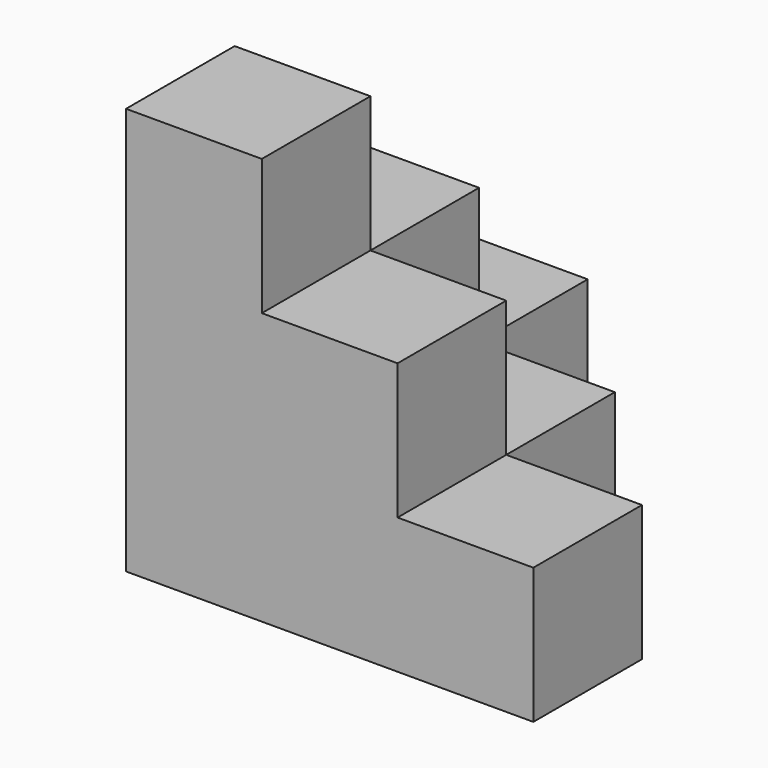
from build123d import *

# Parameters (mm, degrees)
BOX001_W     = 10
BOX001_H     = 10
BOX001_DEPTH = 20
BOX002_W     = 10
BOX002_H     = 20
BOX002_DEPTH = 10
BOX003_W     = 10
BOX003_H     = 10
BOX003_DEPTH = 10
BOX004_W     = 10
BOX004_H     = 10
BOX004_DEPTH = 10
BOX005_W     = 10
BOX005_H     = 10
BOX005_DEPTH = 10
BOX006_W     = 10
BOX006_H     = 10
BOX006_DEPTH = 20
BOX_W        = 10
BOX_H        = 10
BOX_DEPTH    = 30


with BuildPart() as cub001:
    # Box001 → Box001 (new body)
    with BuildSketch(Plane(origin=(0, 10, 0), x_dir=(1, 0, 0), z_dir=(0, 0, 1))):
        with Locations((5, 5)):
            Rectangle(BOX001_W, BOX001_H)
    extrude(amount=BOX001_DEPTH)


with BuildPart() as cub002:
    # Box002 → Box002 (new body)
    with BuildSketch(Plane(origin=(10, 0, 0), x_dir=(1, 0, 0), z_dir=(0, 0, 1))):
        with Locations((5, 10)):
            Rectangle(BOX002_W, BOX002_H)
    extrude(amount=BOX002_DEPTH)


with BuildPart() as cub003:
    # Box003 → Box003 (new body)
    with BuildSketch(Plane(origin=(20, 0, 0), x_dir=(1, 0, 0), z_dir=(0, 0, 1))):
        with Locations((5, 5)):
            Rectangle(BOX003_W, BOX003_H)
    extrude(amount=BOX003_DEPTH)


with BuildPart() as cub004:
    # Box004 → Box004 (new body)
    with BuildSketch(Plane(origin=(0, 20, 0), x_dir=(1, 0, 0), z_dir=(0, 0, 1))):
        with Locations((5, 5)):
            Rectangle(BOX004_W, BOX004_H)
    extrude(amount=BOX004_DEPTH)


with BuildPart() as cub005:
    # Box005 → Box005 (new body)
    with BuildSketch(Plane.XY):
        with Locations((5, 5)):
            Rectangle(BOX005_W, BOX005_H)
    extrude(amount=BOX005_DEPTH)


with BuildPart() as cub006:
    # Box006 → Box006 (new body)
    with BuildSketch(Plane(origin=(10, 0, 0), x_dir=(1, 0, 0), z_dir=(0, 0, 1))):
        with Locations((5, 5)):
            Rectangle(BOX006_W, BOX006_H)
    extrude(amount=BOX006_DEPTH)


with BuildPart() as cub:
    # Box → Box (new body)
    with BuildSketch(Plane.XY):
        with Locations((5, 5)):
            Rectangle(BOX_W, BOX_H)
    extrude(amount=BOX_DEPTH)


with BuildPart() as fusion001:
    # Fusion001 base: copy of Cub
    add(cub.part)

    # Fusion001: union Cub001, Cub002, Cub003, Cub004, Cub005, Cub006
    add(cub001.part)
    add(cub002.part)
    add(cub003.part)
    add(cub004.part)
    add(cub005.part)
    add(cub006.part)


with BuildPart() as fusion002:
    # Fusion002 base: copy of Cub
    add(cub.part)

    # Fusion002: union Cub001
    add(cub001.part)


with BuildPart() as fusion003:
    # Fusion003 base: copy of Cub
    add(cub.part)

    # Fusion003: union Cub001
    add(cub001.part)


with BuildPart() as fusion004:
    # Fusion004 base: copy of Cub
    add(cub.part)

    # Fusion004: union Cub001
    add(cub001.part)


with BuildPart() as fusion005:
    # Fusion base: copy of Cub
    add(cub.part)

    # Fusion: union Cub001, Cub002, Cub003, Cub004, Cub005, Cub006
    add(cub001.part)
    add(cub002.part)
    add(cub003.part)
    add(cub004.part)
    add(cub005.part)
    add(cub006.part)

    # Fusion005: union Fusion001, Fusion002, Fusion003, Fusion004
    add(fusion001.part)
    add(fusion002.part)
    add(fusion003.part)
    add(fusion004.part)


solid = fusion005.part
